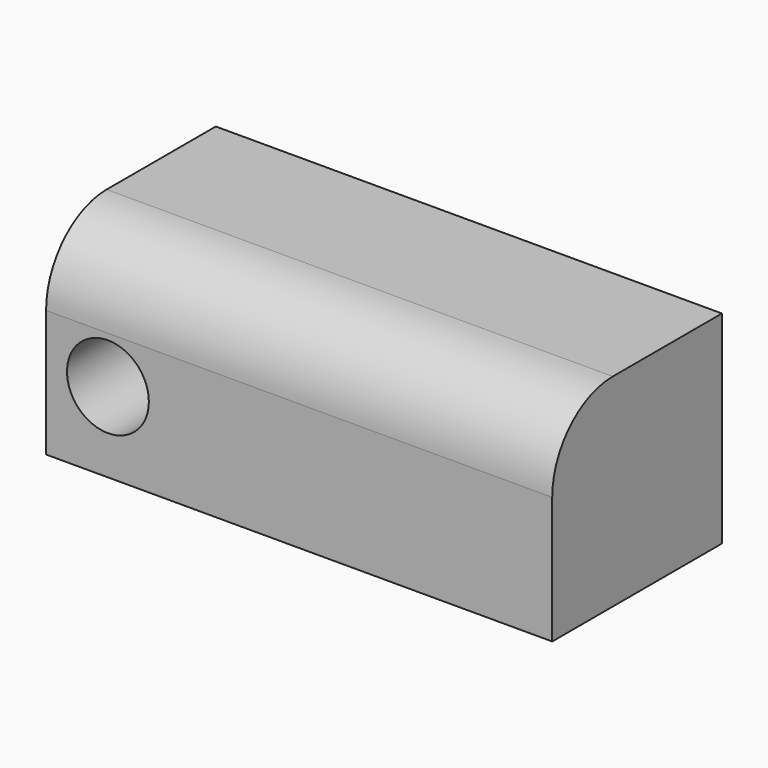
from build123d import *

# Parameters (mm, degrees)
F0_W     = 106.66725
F0_H     = 42.689698
F0_R     = 8.621606
F1_DEPTH = 44.704
F2_R     = 15.943466


with BuildPart() as f1:
    # F0 (on Front) → F1 (new body)
    with BuildSketch(Plane.XZ):
        with Locations((-18.370472, -15.969823)):
            Rectangle(F0_W, F0_H)
        with Locations((-58.666989, -20.491278)):
            Circle(F0_R, mode=Mode.SUBTRACT)
    extrude(amount=F1_DEPTH)

    # F2
    f2_edges = [f1.edges().sort_by_distance(p)[0] for p in [
        (-18.370472, -44.704, 5.375026),
    ]]
    fillet(f2_edges, radius=F2_R)


solid = f1.part
